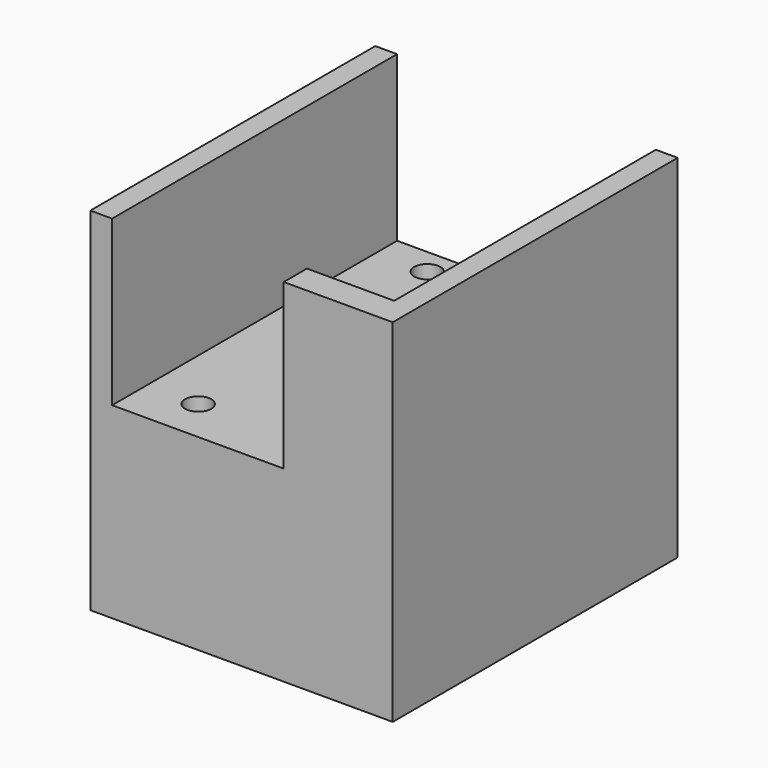
from build123d import *

# Parameters (mm, degrees)
F0_W     = 52.832
F0_H     = 32.512
F1_DEPTH = 62.23
F2_T     = -3.81
F3_W     = 5.08
F3_H     = 28.702
F4_DEPTH = 15.24
F6_D     = 4.572
F7_DEPTH = 28.956


with BuildPart() as f1:
    # F0 (on Front) → F1 (new body)
    with BuildSketch(Plane.XZ):
        with Locations((26.416, 16.256)):
            Rectangle(F0_W, F0_H)
    extrude(amount=F1_DEPTH)

    # F2
    f2_openings = [f1.faces().sort_by_distance(p)[0] for p in [
        (26.416, 0, 16.256),
        (26.416, -31.115, 32.512),
        (26.416, -62.23, 16.256),
    ]]
    offset(amount=F2_T, openings=f2_openings)

    # F3 (on face) → F4 (join)
    with BuildSketch(Plane(origin=(49.022, 0, 0), x_dir=(0, -1, 0), z_dir=(-1, 0, 0))):
        with Locations((59.69, 18.161)):
            Rectangle(F3_W, F3_H)
    extrude(amount=F4_DEPTH)

    # F6 (through all)
    with Locations(Plane.XY.offset(3.81)):
        with Locations((12.7508, -4.572), (40.0812, -54.61), (12.7508, -54.61), (40.0812, -4.572)):
            Hole(F6_D / 2)

    # F7 (add): a face of the model
    f7_faces = [f1.faces().sort_by_distance(p)[0] for p in [
        (26.416, -31.1460608146, 0),
    ]]
    extrude(f7_faces, amount=F7_DEPTH)


solid = f1.part
